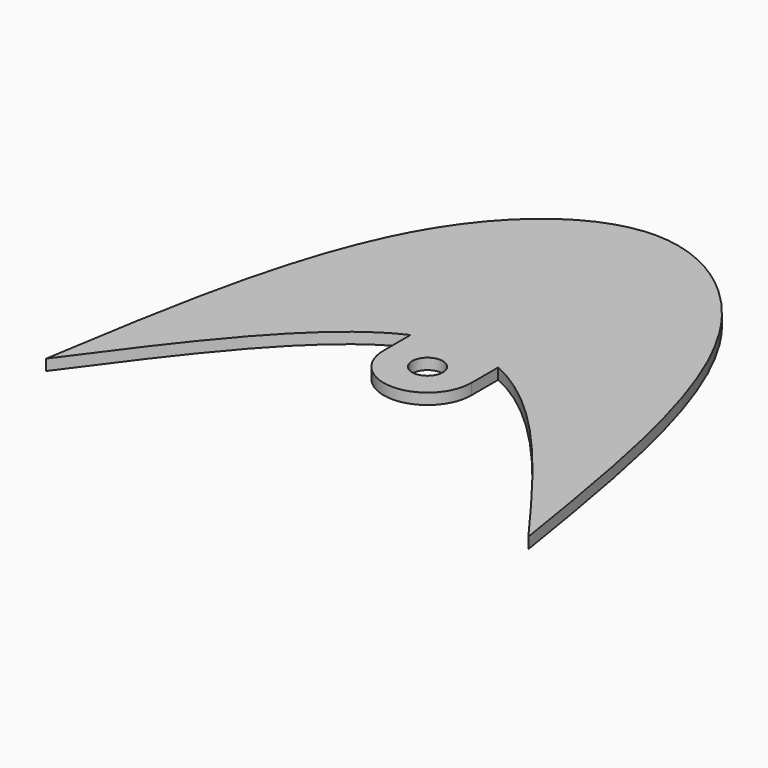
from build123d import *

# Parameters (mm, degrees)
F0_R     = 4.445
F1_DEPTH = 3.175


with BuildPart() as f1:
    # F0 (on Top) → F1 (new body)
    with BuildSketch(Plane.XY):
        with BuildLine():
            Line((-12.7, 0), (0, 0))
            Line((0, 0), (-41.3091781569, 41.3091781569))
            add(Edge.make_bspline(
                [(-69.85, -63.5), (-63.532990554, -23.9452416108), (-57.215981108, 15.6095167784), (-41.3091781569, 41.3091781569)],
                knots=[0, 0, 0, 0, 0.2976414711, 0.2976414711, 0.2976414711, 0.2976414711], degree=3))
            add(Edge.make_bspline(
                [(-69.85, -63.5), (-50.8, -37.5227272727), (-31.75, -11.5454545454), (-12.7, -2.9579263711)],
                knots=[0, 0, 0, 0, 0.4090909091, 0.4090909091, 0.4090909091, 0.4090909091], degree=3))
            Line((-12.7, -2.9579263711), (-12.7, 0))
        make_face()
        with BuildLine():
            Line((-41.3091781569, 41.3091781569), (0, 0))
            Line((0, 0), (41.3091781569, 41.3091781569))
            add(Edge.make_bspline(
                [(-41.3091781569, 41.3091781569), (-30.4945654203, 58.7816951753), (0, 80.9183048247), (30.4945654203, 58.7816951753), (41.3091781569, 41.3091781569)],
                knots=[0.2976414711, 0.2976414711, 0.2976414711, 0.2976414711, 0.5, 0.7023585289, 0.7023585289, 0.7023585289, 0.7023585289], degree=3))
        make_face()
        with BuildLine():
            Line((41.3091781569, 41.3091781569), (0, 0))
            Line((0, 0), (12.7, 0))
            Line((12.7, 0), (12.7, -2.9579263711))
            add(Edge.make_bspline(
                [(12.7, -2.9579263711), (31.75, -11.5454545454), (50.8, -37.5227272727), (69.85, -63.5)],
                knots=[0.5909090909, 0.5909090909, 0.5909090909, 0.5909090909, 1, 1, 1, 1], degree=3))
            add(Edge.make_bspline(
                [(41.3091781569, 41.3091781569), (57.215981108, 15.6095167784), (63.532990554, -23.9452416108), (69.85, -63.5)],
                knots=[0.7023585289, 0.7023585289, 0.7023585289, 0.7023585289, 1, 1, 1, 1], degree=3))
        make_face()
        with BuildLine():
            Line((12.7, 0), (0, 0))
            add(Edge.make_bspline(
                [(0, 0), (4.2333333333, 0), (8.4666666667, -1.0495867769), (12.7, -2.9579263711)],
                knots=[0.5, 0.5, 0.5, 0.5, 0.5909090909, 0.5909090909, 0.5909090909, 0.5909090909], degree=3))
            Line((12.7, -2.9579263711), (12.7, 0))
        make_face()
        with BuildLine():
            add(Edge.make_bspline(
                [(-12.7, -2.9579263711), (-8.4666666667, -1.0495867769), (-4.2333333333, 0), (0, 0)],
                knots=[0.4090909091, 0.4090909091, 0.4090909091, 0.4090909091, 0.5, 0.5, 0.5, 0.5], degree=3))
            Line((0, 0), (-12.7, 0))
            Line((-12.7, 0), (-12.7, -2.9579263711))
        make_face()
        with BuildLine():
            add(Edge.make_bspline(
                [(0, 0), (4.2333333333, 0), (8.4666666667, -1.0495867769), (12.7, -2.9579263711)],
                knots=[0.5, 0.5, 0.5, 0.5, 0.5909090909, 0.5909090909, 0.5909090909, 0.5909090909], degree=3))
            add(Edge.make_bspline(
                [(-12.7, -2.9579263711), (-8.4666666667, -1.0495867769), (-4.2333333333, 0), (0, 0)],
                knots=[0.4090909091, 0.4090909091, 0.4090909091, 0.4090909091, 0.5, 0.5, 0.5, 0.5], degree=3))
            Line((-12.7, -2.9579263711), (-12.7, -12.7))
            ThreePointArc((-12.7, -12.7), (0, -25.4), (12.7, -12.7))
            Line((12.7, -12.7), (12.7, -2.9579263711))
        make_face()
        with Locations((0, -12.7)):
            Circle(F0_R, mode=Mode.SUBTRACT)
    extrude(amount=F1_DEPTH)


solid = f1.part
